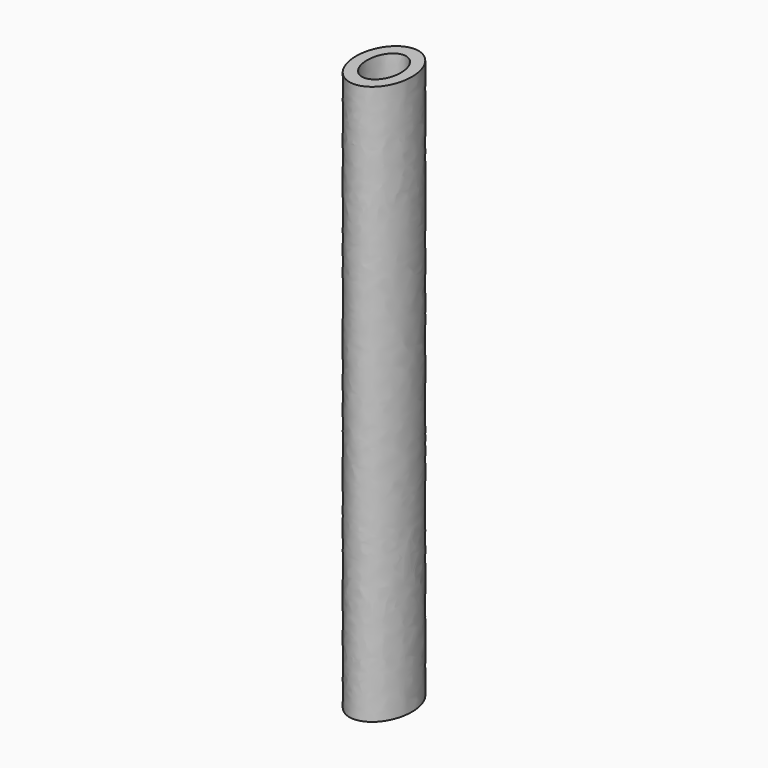
from build123d import *

# Parameters (mm, degrees)
F1_DEPTH = 200


with BuildPart() as f1:
    # F0 (on Top) → F1 (new body)
    with BuildSketch(Plane.XY):
        with BuildLine():
            add(Edge.make_bspline(
                [(0, 13.6), (-17.320508, 13.6), (-8.660254, -6.8), (0, -27.2), (8.660254, -6.8), (17.320508, 13.6), (0, 13.6)],
                knots=[0, 0, 0, 2.094395, 2.094395, 4.18879, 4.18879, 6.283185, 6.283185, 6.283185], degree=2, weights=[1, 0.5, 1, 0.5, 1, 0.5, 1]))
        make_face()
        with BuildLine():
            add(Edge.make_bspline(
                [(0, 8.835), (-10.503156, 8.835), (-5.251578, -4.4175), (0, -17.67), (5.251578, -4.4175), (10.503156, 8.835), (0, 8.835)],
                knots=[0, 0, 0, 2.094395, 2.094395, 4.18879, 4.18879, 6.283185, 6.283185, 6.283185], degree=2, weights=[1, 0.5, 1, 0.5, 1, 0.5, 1]))
        make_face(mode=Mode.SUBTRACT)
    extrude(amount=F1_DEPTH)


solid = f1.part
